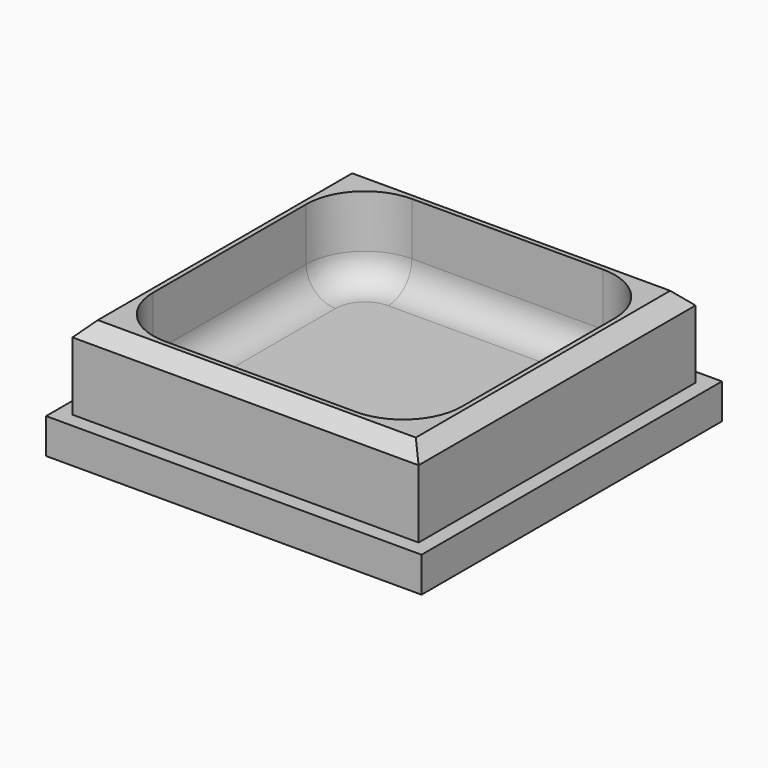
from build123d import *

# Parameters (mm, degrees)
F0_W     = 32
F0_H     = 32
F0_W_2   = 29.5
F0_H_2   = 29.5
F0_W_3   = 26.3
F0_H_3   = 26.3
F1_DEPTH = 3
F2_DEPTH = 10
F3_R     = 5
F4_SIZE  = 1.2
F5_R     = 2.5


with BuildPart() as f1:
    # F0 (on Top) → F1 (new body)
    with BuildSketch(Plane.XY):
        Rectangle(F0_W, F0_H)
        Rectangle(F0_W_2, F0_H_2, mode=Mode.SUBTRACT)
        Rectangle(F0_W_2, F0_H_2)
        Rectangle(F0_W_3, F0_H_3, mode=Mode.SUBTRACT)
        Rectangle(F0_W_3, F0_H_3)
    extrude(amount=F1_DEPTH)

    # F0 (on Top) → F2 (join)
    with BuildSketch(Plane.XY):
        Rectangle(F0_W_2, F0_H_2)
        Rectangle(F0_W_3, F0_H_3, mode=Mode.SUBTRACT)
    extrude(amount=F2_DEPTH)

    # F3
    f3_edges = [f1.edges().sort_by_distance(p)[0] for p in [
        (-13.15, 13.15, 6.5),
        (13.15, 13.15, 6.5),
        (13.15, -13.15, 6.5),
        (-13.15, -13.15, 6.5),
    ]]
    fillet(f3_edges, radius=F3_R)

    # F4
    f4_edges = [f1.edges().sort_by_distance(p)[0] for p in [
        (-14.75, 0, 10),
        (0, -14.75, 10),
        (0, 14.75, 10),
        (14.75, 0, 10),
    ]]
    chamfer(f4_edges, length=F4_SIZE)

    # F5
    f5_edges = [f1.edges().sort_by_distance(p)[0] for p in [
        (11.685534, 11.685534, 3),
    ]]
    fillet(f5_edges, radius=F5_R)


solid = f1.part
